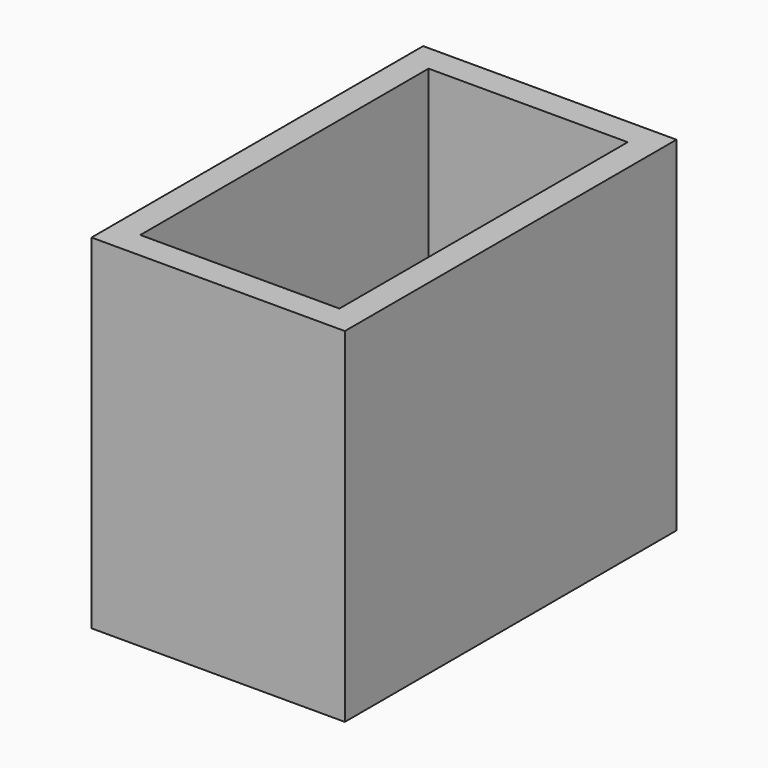
from build123d import *

# Parameters (mm, degrees)
F0_W     = 18.7
F0_H     = 30.6
F0_W_2   = 14.7
F0_H_2   = 26.6
F1_DEPTH = 25
F2_DEPTH = 25.4


with BuildPart() as f1:
    # F0 (on Top) → F1 (new body)
    with BuildSketch(Plane.XY):
        Rectangle(F0_W, F0_H)
        Rectangle(F0_W_2, F0_H_2, mode=Mode.SUBTRACT)
    extrude(amount=F1_DEPTH)

    # F0 (on Top) → F2 (join)
    with BuildSketch(Plane.XY):
        Rectangle(F0_W, F0_H)
        Rectangle(F0_W_2, F0_H_2, mode=Mode.SUBTRACT)
    extrude(amount=F2_DEPTH)


solid = f1.part
